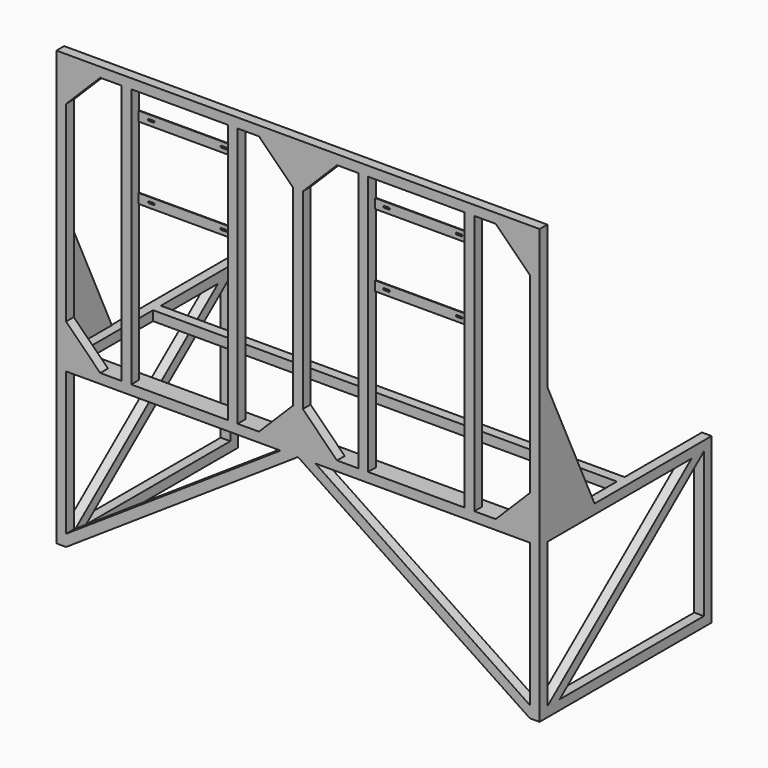
from build123d import *

# Parameters (mm, degrees)
F0_W          = 2000
F0_H          = 1796
F1_DEPTH      = 40
F2_W          = 2000
F2_H          = 680
F3_DEPTH      = 850
F4_W          = 1920
F4_H          = 640
F5_DEPTH      = 40.001
F5_DEPTH_BACK = 850.001
F7_DEPTH      = 2000.001
F8_W          = 1920
F8_H          = 400
F8_H_2        = 370
F9_DEPTH      = 680.001
F11_DEPTH     = 40
F12_W         = 40
F12_H         = 1076
F13_DEPTH     = 40
F14_W         = 400
F14_H         = 40
F15_DEPTH     = 3
F17_DEPTH     = 2
F19_DEPTH     = 2


with BuildPart() as f1:
    # F0 (on Front) → F1 (new body)
    with BuildSketch(Plane.XZ):
        Rectangle(F0_W, F0_H)
    extrude(amount=F1_DEPTH)

    # F2 (on face) → F3 (join)
    with BuildSketch(Plane(origin=(0, 0, 0), x_dir=(-1, 0, 0), z_dir=(0, 1, 0))):
        with Locations((0, -558)):
            Rectangle(F2_W, F2_H)
    extrude(amount=F3_DEPTH)

    # F4 (on face) → F5 (cut, two sides)
    with BuildSketch(Plane(origin=(0, 0, 0), x_dir=(-1, 0, 0), z_dir=(0, 1, 0))) as f5_sk:
        with Locations((0, -578)):
            Rectangle(F4_W, F4_H)
        Polygon((-161.4213562373, -218), (-20, -76.5786437627), (-20, 716.5786437627), (-161.4213562373, 858), (-818.5786437627, 858), (-960, 716.5786437627), (-960, -76.5786437627), (-818.5786437627, -218), align=None)
        Polygon((20, 716.5786437627), (20, -76.5786437627), (161.4213562373, -218), (818.5786437627, -218), (960, -76.5786437627), (960, 716.5786437627), (818.5786437627, 858), (161.4213562373, 858), align=None)
    extrude(amount=-F5_DEPTH, mode=Mode.SUBTRACT)
    extrude(f5_sk.sketch, amount=F5_DEPTH_BACK, mode=Mode.SUBTRACT)

    # F6 (on face) → F7 (cut, through all)
    with BuildSketch(Plane(origin=(-1000, 0, 0), x_dir=(0, -1, 0), z_dir=(-1, 0, 0))):
        Polygon((-63.8319580969, -858), (-810, -258), (-810, -858), align=None)
        Polygon((0, -858), (0, -258), (-746.1680419031, -258), align=None)
    extrude(amount=-F7_DEPTH, mode=Mode.SUBTRACT)

    # F8 (on face) → F9 (cut, through all)
    with BuildSketch(Plane.XY.offset(-218)):
        with Locations((0, 650)):
            Rectangle(F8_W, F8_H)
        with Locations((0, 225)):
            Rectangle(F8_W, F8_H_2)
    extrude(amount=-F9_DEPTH, mode=Mode.SUBTRACT)

    # F10 (on face) → F11 (join)
    with BuildSketch(Plane.XZ.offset(40)):
        Polygon((72.1110255093, -258), (0, -258), (960, -898), (960, -849.9259829938), align=None)
        Polygon((-960, -898), (0, -258), (-72.1110255093, -258), (-960, -849.9259829938), align=None)
    extrude(amount=-F11_DEPTH)

    # F12 (on face) → F13 (join)
    with BuildSketch(Plane.XZ.offset(40)):
        with Locations((-710, 320)):
            Rectangle(F12_W, F12_H)
        with Locations((-270, 320)):
            Rectangle(F12_W, F12_H)
        with Locations((270, 320)):
            Rectangle(F12_W, F12_H)
        with Locations((710, 320)):
            Rectangle(F12_W, F12_H)
    extrude(amount=-F13_DEPTH)

    # F14 (on face) → F15 (join)
    with BuildSketch(Plane(origin=(0, 0, 0), x_dir=(-1, 0, 0), z_dir=(0, 1, 0))):
        with Locations((490, 745)):
            Rectangle(F14_W, F14_H)
        with BuildLine():
            Line((327, 748.5), (337, 748.5))
            Line((337, 748.5), (347, 748.5))
            ThreePointArc((347, 748.5), (350.5, 745), (347, 741.5))
            Line((347, 741.5), (337, 741.5))
            Line((337, 741.5), (327, 741.5))
            ThreePointArc((327, 741.5), (323.5, 745), (327, 748.5))
        make_face(mode=Mode.SUBTRACT)
        with BuildLine():
            Line((627, 748.5), (637, 748.5))
            Line((637, 748.5), (647, 748.5))
            ThreePointArc((647, 748.5), (650.5, 745), (647, 741.5))
            Line((647, 741.5), (637, 741.5))
            Line((637, 741.5), (627, 741.5))
            ThreePointArc((627, 741.5), (623.5, 745), (627, 748.5))
        make_face(mode=Mode.SUBTRACT)
        with Locations((490, 445)):
            Rectangle(F14_W, F14_H)
        with BuildLine():
            Line((327, 448.5), (337, 448.5))
            Line((337, 448.5), (347, 448.5))
            ThreePointArc((347, 448.5), (350.5, 445), (347, 441.5))
            Line((347, 441.5), (337, 441.5))
            Line((337, 441.5), (327, 441.5))
            ThreePointArc((327, 441.5), (323.5, 445), (327, 448.5))
        make_face(mode=Mode.SUBTRACT)
        with BuildLine():
            Line((627, 448.5), (637, 448.5))
            Line((637, 448.5), (647, 448.5))
            ThreePointArc((647, 448.5), (650.5, 445), (647, 441.5))
            Line((647, 441.5), (637, 441.5))
            Line((637, 441.5), (627, 441.5))
            ThreePointArc((627, 441.5), (623.5, 445), (627, 448.5))
        make_face(mode=Mode.SUBTRACT)
        with Locations((-490, 745)):
            Rectangle(F14_W, F14_H)
        with BuildLine():
            Line((-647, 748.5), (-637, 748.5))
            Line((-637, 748.5), (-627, 748.5))
            ThreePointArc((-627, 748.5), (-623.5, 745), (-627, 741.5))
            Line((-627, 741.5), (-637, 741.5))
            Line((-637, 741.5), (-647, 741.5))
            ThreePointArc((-647, 741.5), (-650.5, 745), (-647, 748.5))
        make_face(mode=Mode.SUBTRACT)
        with BuildLine():
            Line((-347, 748.5), (-337, 748.5))
            Line((-337, 748.5), (-327, 748.5))
            ThreePointArc((-327, 748.5), (-323.5, 745), (-327, 741.5))
            Line((-327, 741.5), (-337, 741.5))
            Line((-337, 741.5), (-347, 741.5))
            ThreePointArc((-347, 741.5), (-350.5, 745), (-347, 748.5))
        make_face(mode=Mode.SUBTRACT)
        with Locations((-490, 445)):
            Rectangle(F14_W, F14_H)
        with BuildLine():
            Line((-647, 448.5), (-637, 448.5))
            Line((-637, 448.5), (-627, 448.5))
            ThreePointArc((-627, 448.5), (-623.5, 445), (-627, 441.5))
            Line((-627, 441.5), (-637, 441.5))
            Line((-637, 441.5), (-647, 441.5))
            ThreePointArc((-647, 441.5), (-650.5, 445), (-647, 448.5))
        make_face(mode=Mode.SUBTRACT)
        with BuildLine():
            Line((-347, 448.5), (-337, 448.5))
            Line((-337, 448.5), (-327, 448.5))
            ThreePointArc((-327, 448.5), (-323.5, 445), (-327, 441.5))
            Line((-327, 441.5), (-337, 441.5))
            Line((-337, 441.5), (-347, 441.5))
            ThreePointArc((-347, 441.5), (-350.5, 445), (-347, 448.5))
        make_face(mode=Mode.SUBTRACT)
    extrude(amount=-F15_DEPTH)

    # F16 (on face) → F17 (join)
    with BuildSketch(Plane(origin=(-1000, 0, 0), x_dir=(0, -1, 0), z_dir=(-1, 0, 0))):
        Polygon((40, 392), (-263.0999778007, -258), (40, -258), align=None)
    extrude(amount=-F17_DEPTH)

    # F18 (on face) → F19 (join)
    with BuildSketch(Plane.YZ.offset(1000)):
        Polygon((-40, -258), (263.0999778007, -258), (-40, 392), align=None)
    extrude(amount=-F19_DEPTH)


solid = f1.part
